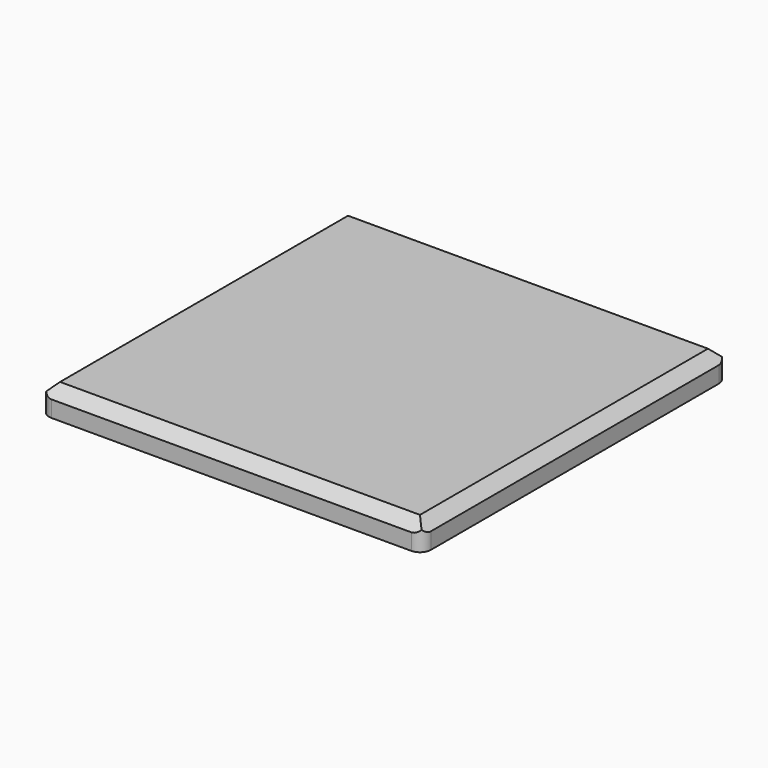
from build123d import *

# Parameters (mm, degrees)
F0_W     = 35
F0_H     = 35
F1_DEPTH = 2.5
F2_SIZE  = 1
F3_R     = 1
F4_R     = 1


with BuildPart() as f1:
    # F0 (on Top) → F1 (new body)
    with BuildSketch(Plane.XY):
        with Locations((-7.465527, 4.566053)):
            Rectangle(F0_W, F0_H)
    extrude(amount=F1_DEPTH)

    # F2
    f2_edges = [f1.edges().sort_by_distance(p)[0] for p in [
        (-7.465527, -12.933947, 2.5),
        (-24.965527, 4.566053, 2.5),
        (-7.465527, 22.066053, 2.5),
        (10.034473, 4.566053, 2.5),
    ]]
    chamfer(f2_edges, length=F2_SIZE)

    # F3
    f3_edges = [f1.edges().sort_by_distance(p)[0] for p in [
        (-24.965527, -12.933947, 0.75),
    ]]
    fillet(f3_edges, radius=F3_R)

    # F4
    f4_edges = [f1.edges().sort_by_distance(p)[0] for p in [
        (-24.965527, 22.066053, 0.75),
        (10.034473, 22.066053, 0.75),
        (10.034473, -12.933947, 0.75),
    ]]
    fillet(f4_edges, radius=F4_R)


solid = f1.part
